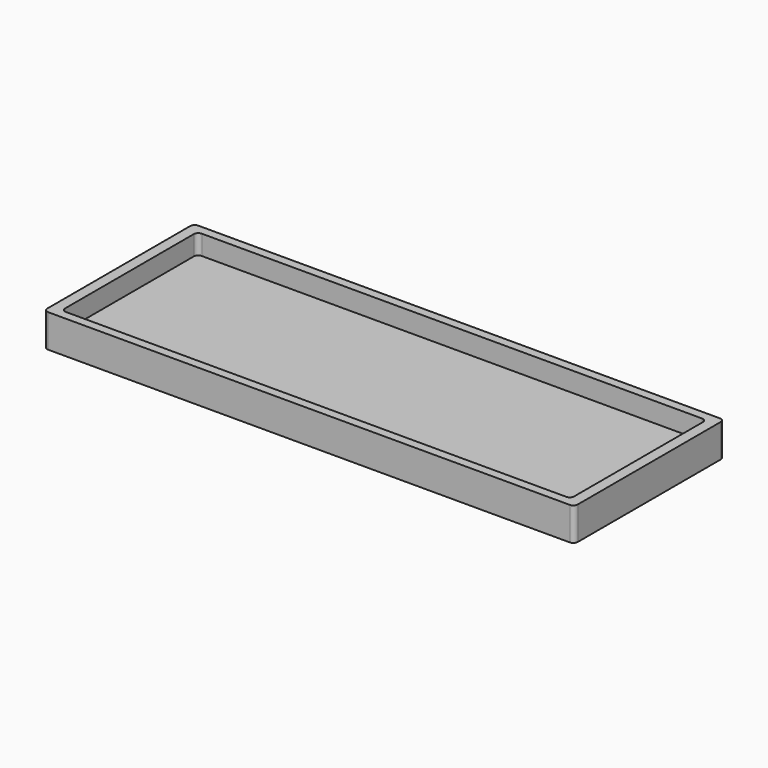
from build123d import *

# Parameters (mm, degrees)
PAD_DEPTH    = 18.5
POCKET_DEPTH = 11


with BuildPart() as part:
    # Sketch → Pad (new body)
    with BuildSketch(Plane.XY):
        with BuildLine():
            Line((148.5, -50), (148.5, 50))
            ThreePointArc((148.5, 50), (147.767767, 51.767767), (146, 52.5))
            Line((146, 52.5), (-146, 52.5))
            ThreePointArc((-146, 52.5), (-147.767767, 51.767767), (-148.5, 50))
            Line((-148.5, 50), (-148.5, -50))
            ThreePointArc((-148.5, -50), (-147.767767, -51.767767), (-146, -52.5))
            Line((-146, -52.5), (146, -52.5))
            ThreePointArc((146, -52.5), (147.767767, -51.767767), (148.5, -50))
        make_face()
    extrude(amount=PAD_DEPTH)

    # Sketch001 (on Face10 of Pad) → Pocket (cut)
    with BuildSketch(Plane.XY.offset(18.5)):
        with BuildLine():
            Line((142.5, -45), (142.5, 45))
            ThreePointArc((142.5, 45), (141.767767, 46.767767), (140, 47.5))
            Line((140, 47.5), (-140, 47.5))
            ThreePointArc((-140, 47.5), (-141.767767, 46.767767), (-142.5, 45))
            Line((-142.5, 45), (-142.5, -45))
            ThreePointArc((-142.5, -45), (-141.767767, -46.767767), (-140, -47.5))
            Line((-140, -47.5), (140, -47.5))
            ThreePointArc((140, -47.5), (141.767767, -46.767767), (142.5, -45))
        make_face()
    extrude(amount=-POCKET_DEPTH, mode=Mode.SUBTRACT)


solid = part.part
